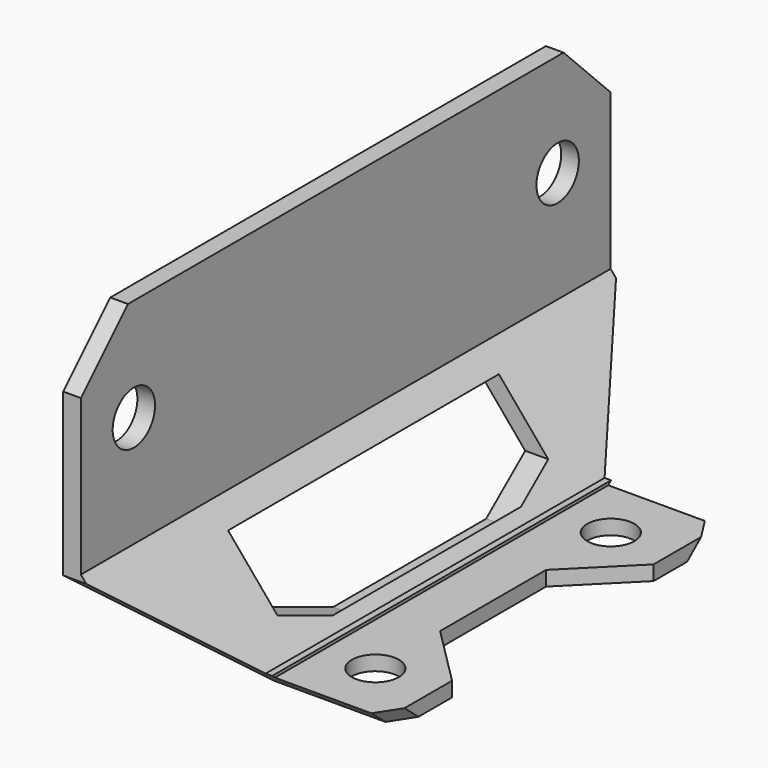
from build123d import *

# Parameters (mm, degrees)
PAD_DEPTH       = 22.5
POCKET_DEPTH    = 20
SKETCH002_R     = 1.6
POCKET001_DEPTH = 5
SKETCH003_R     = 1.8
POCKET002_DEPTH = 5
CHAMFER001_SIZE = 4
CHAMFER_SIZE    = 1
POCKET003_DEPTH = 5.5
SKETCH005_W     = 8
SKETCH005_H     = 29
POCKET004_DEPTH = 0.2


with BuildPart() as part:
    # Sketch → Pad (new body, symmetric)
    with BuildSketch(Plane.XZ):
        Polygon((0, 0), (8.559569, 0), (8.559569, 1.2), (0.559569, 1.2), (-5.512797, 8.436764), (-5.512797, 23), (-6.712797, 23), (-6.712797, 8), align=None)
    extrude(amount=PAD_DEPTH, both=True)

    # Sketch001 (on Face7 of Pad) → Pocket (cut)
    with BuildSketch(Plane(origin=(-6.712797, 0, 0), x_dir=(0, 0, -1), z_dir=(-1, 0, 0))):
        Polygon((-8, -22.5), (0, -12.965971), (0, -23.5), (-8, -23.5), align=None)
        Polygon((-8, 22.5), (0, 12.965971), (0, 23.5), (-8, 23.5), align=None)
    extrude(amount=-POCKET_DEPTH, mode=Mode.SUBTRACT)

    # Sketch002 (on Face6 of Pocket) → Pocket001 (cut)
    with BuildSketch(Plane(origin=(0, 0, 1.2), x_dir=(-1, 0, 0), z_dir=(0, 0, 1))):
        with Locations((-4.5, 10)):
            Circle(SKETCH002_R)
        with Locations((-4.5, -10)):
            Circle(SKETCH002_R)
        Polygon((-9.5, -9.5), (-4.5, -4.5), (-4.5, 4.5), (-9.5, 9.5), align=None)
    extrude(amount=-POCKET001_DEPTH, mode=Mode.SUBTRACT)

    # Sketch003 (on Face16 of Pocket001) → Pocket002 (cut)
    with BuildSketch(Plane(origin=(-6.712797, 0, 0), x_dir=(0, 0, -1), z_dir=(-1, 0, 0))):
        with Locations((-16, 18)):
            Circle(SKETCH003_R)
        with Locations((-16, -18)):
            Circle(SKETCH003_R)
    extrude(amount=-POCKET002_DEPTH, mode=Mode.SUBTRACT)

    # Chamfer001
    chamfer001_edges = [part.edges().sort_by_distance(p)[0] for p in [
        (-6.112797, -22.5, 23),
        (-6.112797, 22.5, 23),
    ]]
    chamfer(chamfer001_edges, length=CHAMFER001_SIZE)

    # Chamfer
    chamfer_edges = [part.edges().sort_by_distance(p)[0] for p in [
        (8.559569, -13.681023, 0.6),
        (8.559569, 13.681023, 0.6),
    ]]
    chamfer(chamfer_edges, length=CHAMFER_SIZE)

    # Sketch004 (on Face19 of Chamfer) → Pocket003 (cut, symmetric)
    with BuildSketch(Plane(origin=(-5.512797, 0, 0), x_dir=(0, 0, 1), z_dir=(1, 0, 0))):
        Polygon((1.4, 6.5), (1.4, -6.5), (3, -11.5), (7, -11.5), (7, 11.5), (3, 11.5), align=None)
    extrude(amount=POCKET003_DEPTH, both=True, mode=Mode.SUBTRACT)

    # Sketch005 (on Face5 of Pocket003) → Pocket004 (cut)
    with BuildSketch(Plane(origin=(0, 0, 1.2), x_dir=(-1, 0, 0), z_dir=(0, 0, 1))):
        with Locations((-5, 0)):
            Rectangle(SKETCH005_W, SKETCH005_H)
    extrude(amount=-POCKET004_DEPTH, mode=Mode.SUBTRACT)


solid = part.part
